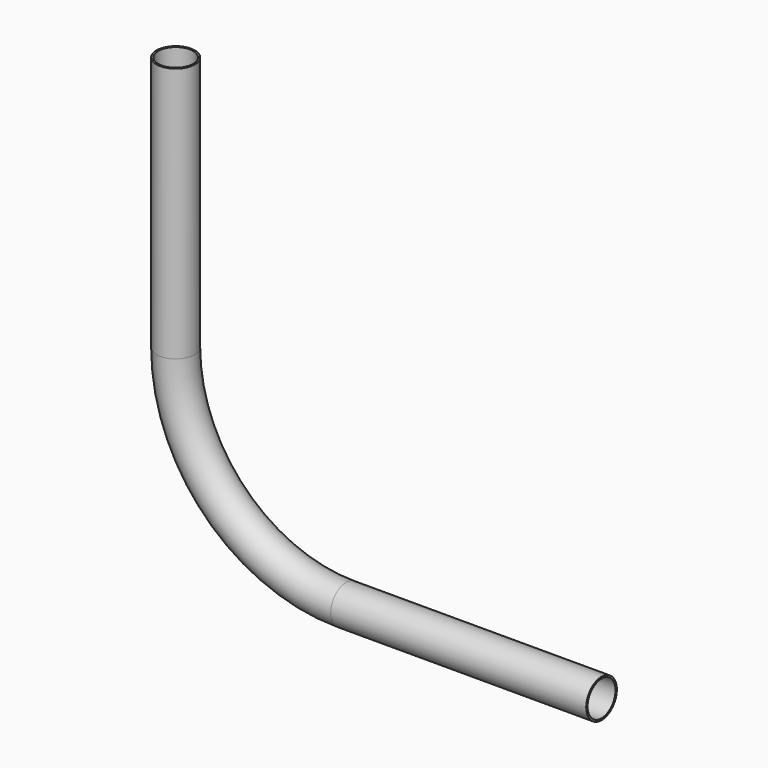
from build123d import *

# Parameters (mm, degrees)
F2_R   = 22.5
F2_R_2 = 20.5


with BuildPart() as f3:
    # F3: sweep along a path in F0
    with BuildLine(Plane.XZ) as f3_path:
        Line((0, 500), (0, 200))
        ThreePointArc((0, 200), (58.578644, 58.578644), (200, 0))
        Line((200, 0), (500, 0))
    # F2 (on plane+point) → F3 (sweep)
    with BuildSketch(Plane.XY.offset(500)):
        Circle(F2_R)
        Circle(F2_R_2, mode=Mode.SUBTRACT)
    sweep(path=f3_path.line)


solid = f3.part
